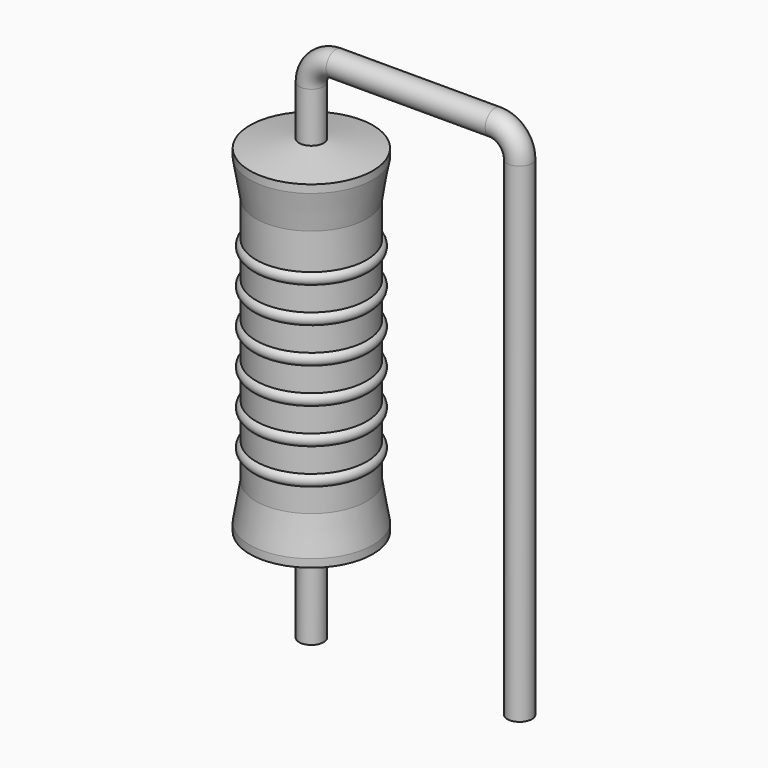
from build123d import *

# Parameters (mm, degrees)
SKETCH_R = 0.45


with BuildPart() as revolution:
    # Sketch002 → Revolution (revolve)
    with BuildSketch(Plane.XZ):
        Polygon((0, 0.1), (0, 13.1), (0.3375, 13.1), (2.25, 12.775), (2.25, 12.4825), (2.025, 11.15), (2.025, 2.05), (2.25, 0.7175), (2.25, 0.425), (0.3375, 0.1), align=None)
    revolve(axis=Axis((0, 0, 0), (0, 0, 1)))


with BuildPart() as sweep_body:
    # Sweep: sweep along a path in Sketch001
    with BuildLine(Plane.XZ) as sweep_path:
        Line((0, -3), (0, 14.9))
        ThreePointArc((0, 14.9), (0.263601, 15.536393), (0.899991, 15.8))
        Line((0.899991, 15.8), (6.72, 15.8))
        ThreePointArc((6.72, 15.8), (7.356396, 15.536396), (7.62, 14.9))
        Line((7.62, 14.9), (7.62, -3))
    # Sketch → Sweep (sweep)
    with BuildSketch(Plane.XY.offset(-2)):
        Circle(SKETCH_R)
    sweep(path=sweep_path.line)


with BuildPart() as obj1:
    # Sketch003 → Revolution001 (revolve)
    with BuildSketch(Plane.XZ):
        with BuildLine():
            Line((1.8, 10.7), (1.8, 2.05))
            Line((1.8, 2.05), (1.935, 2.05))
            Line((1.935, 2.05), (1.935, 2.9))
            ThreePointArc((1.935, 2.9), (2.16, 3.125), (1.935, 3.35))
            Line((1.935, 3.35), (1.935, 4.2))
            ThreePointArc((1.935, 4.2), (2.16, 4.425), (1.935, 4.65))
            Line((1.935, 4.65), (1.935, 5.5))
            ThreePointArc((1.935, 5.5), (2.16, 5.725), (1.935, 5.95))
            Line((1.935, 5.95), (1.935, 6.8))
            ThreePointArc((1.935, 6.8), (2.16, 7.025), (1.935, 7.25))
            Line((1.935, 7.25), (1.935, 8.1))
            ThreePointArc((1.935, 8.1), (2.16, 8.325), (1.935, 8.55))
            Line((1.935, 8.55), (1.935, 9.4))
            ThreePointArc((1.935, 9.4), (2.16, 9.625), (1.935, 9.85))
            Line((1.935, 10.7), (1.935, 9.85))
            Line((1.8, 10.7), (1.935, 10.7))
        make_face()
    revolve(axis=Axis((0, 0, 0), (0, 0, 1)))

    # obj1: union Revolution, Sweep body
    add(revolution.part)
    add(sweep_body.part)


solid = obj1.part
